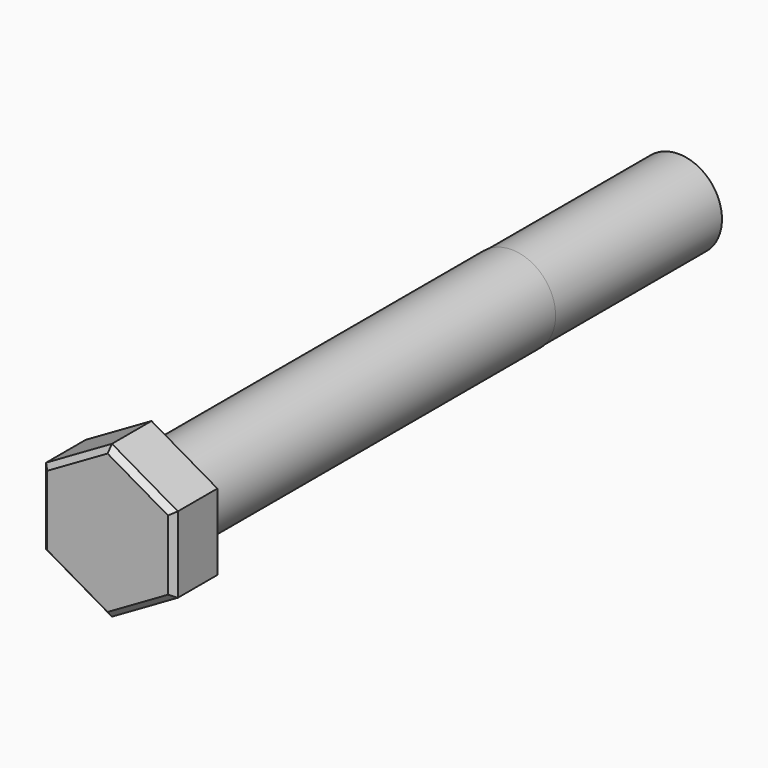
from build123d import *

# Parameters (mm, degrees)
F1_DEPTH = 10
F2_SIZE2 = 1
F2_SIZE  = 1
F3_R     = 8
F4_DEPTH = 120
F5_R     = 8
F5_R_2   = 7.9
F6_DEPTH = 38


with BuildPart() as f1:
    # F0 (on Front) → F1 (new body)
    with BuildSketch(Plane.XZ):
        Polygon((0, -13.856406), (12, -6.928203), (12, 6.928203), (0, 13.856406), (-12, 6.928203), (-12, -6.928203), align=None)
    extrude(amount=F1_DEPTH)

    # F2
    f2_edges = [f1.edges().sort_by_distance(p)[0] for p in [
        (6, -10, 10.392305),
        (-6, -10, 10.392305),
        (12, -10, 0),
        (6, -10, -10.392305),
        (-6, -10, -10.392305),
        (-12, -10, 0),
    ]]
    chamfer(f2_edges, length=F2_SIZE, length2=F2_SIZE2)

    # F3 (on face) → F4 (join)
    with BuildSketch(Plane(origin=(0, 0, 0), x_dir=(-1, 0, 0), z_dir=(0, 1, 0))):
        Circle(F3_R)
    extrude(amount=F4_DEPTH)

    # F5 (on face) → F6 (cut)
    with BuildSketch(Plane(origin=(0, 120, 0), x_dir=(-1, 0, 0), z_dir=(0, 1, 0))):
        Circle(F5_R)
        Circle(F5_R_2, mode=Mode.SUBTRACT)
    extrude(amount=-F6_DEPTH, mode=Mode.SUBTRACT)


solid = f1.part
